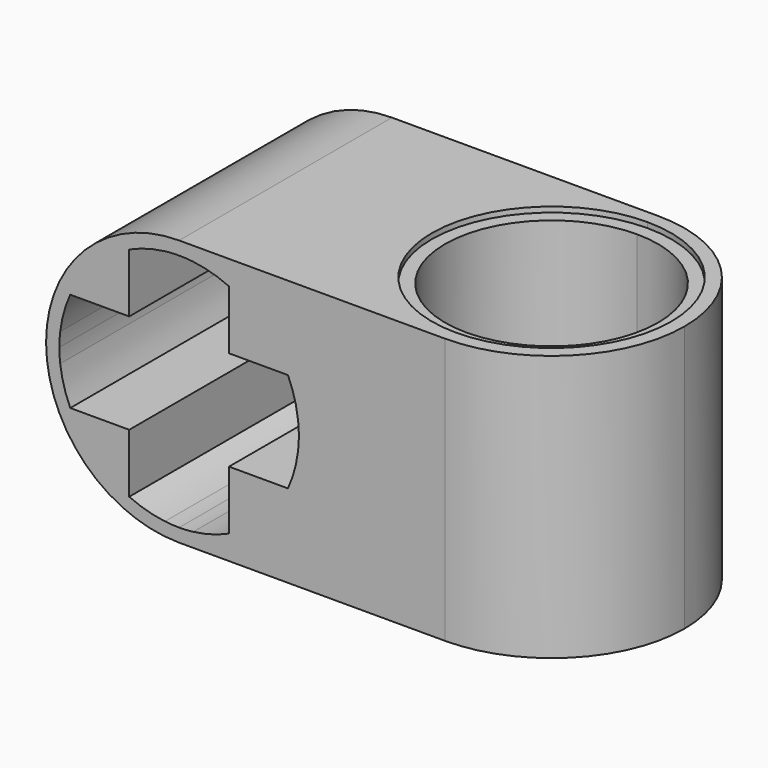
from build123d import *

# Parameters (mm, degrees)
F1_DEPTH = 12.7
F3_DEPTH = 12.7
F4_DEPTH = 0.254
F5_R     = 5.715
F5_R_2   = 5.0844343855
F6_DEPTH = 0.254


with BuildPart() as f1:
    # F0 (on Front) → F1 (new body)
    with BuildSketch(Plane.XZ):
        with BuildLine():
            Line((-1.1751782149, -4.8178826279), (-1.1751782149, 1.5321173721))
            ThreePointArc((-1.1751782149, 1.5321173721), (-3.0350501544, -2.9580106884), (-7.5251782149, -4.8178826279))
            Line((-7.5251782149, -4.8178826279), (-1.1751782149, -4.8178826279))
        make_face()
        with BuildLine():
            Line((-13.2001757149, 2.2071198721), (-13.8751782149, 1.5321173721))
            Line((-13.8751782149, 1.5321173721), (-13.2401782149, 1.5321173721))
            ThreePointArc((-13.2401782149, 1.5321173721), (-13.2301688246, 1.8702107672), (-13.2001757149, 2.2071198721))
        make_face()
        with BuildLine():
            Line((-13.2401782149, 1.5321173721), (-13.8751782149, 1.5321173721))
            Line((-13.8751782149, 1.5321173721), (-13.2001757149, 0.8571148721))
            ThreePointArc((-13.2001757149, 0.8571148721), (-13.2301688246, 1.1940239771), (-13.2401782149, 1.5321173721))
        make_face()
        with BuildLine():
            Line((-8.2001807149, -4.1428801279), (-7.5251782149, -4.8178826279))
            Line((-7.5251782149, -4.8178826279), (-7.5251782149, -4.1828826279))
            ThreePointArc((-7.5251782149, -4.1828826279), (-7.8632716099, -4.1728732375), (-8.2001807149, -4.1428801279))
        make_face()
        with BuildLine():
            Line((-7.5251782149, -4.1828826279), (-7.5251782149, -4.8178826279))
            Line((-7.5251782149, -4.8178826279), (-6.8501757149, -4.1428801279))
            ThreePointArc((-6.8501757149, -4.1428801279), (-7.1870848199, -4.1728732375), (-7.5251782149, -4.1828826279))
        make_face()
        with BuildLine():
            Line((-6.8501757149, 7.2071148721), (-7.5251782149, 7.8821173721))
            Line((-7.5251782149, 7.8821173721), (-7.5251782149, 7.2471173721))
            ThreePointArc((-7.5251782149, 7.2471173721), (-7.1870848199, 7.2371079818), (-6.8501757149, 7.2071148721))
        make_face()
        with BuildLine():
            Line((-7.5251782149, 7.2471173721), (-7.5251782149, 7.8821173721))
            Line((-7.5251782149, 7.8821173721), (-8.2001807149, 7.2071148721))
            ThreePointArc((-8.2001807149, 7.2071148721), (-7.8632716099, 7.2371079818), (-7.5251782149, 7.2471173721))
        make_face()
        with BuildLine():
            ThreePointArc((-1.1751782149, 1.5321173721), (-3.0350501544, 6.0222454327), (-7.5251782149, 7.8821173721))
            Line((-7.5251782149, 7.8821173721), (-6.8501757149, 7.2071148721))
            ThreePointArc((-6.8501757149, 7.2071148721), (-5.9783416171, 7.0338008908), (-5.1439282149, 6.7273915167))
            ThreePointArc((-5.1439282149, 6.7273915167), (-3.4840629604, 5.5732326266), (-2.3299040703, 3.9133673721))
            ThreePointArc((-2.3299040703, 3.9133673721), (-2.0234946962, 3.07895397), (-1.8501807149, 2.2071198721))
            Line((-1.8501807149, 2.2071198721), (-1.1751782149, 1.5321173721))
        make_face()
        with BuildLine():
            Line((-8.2001807149, 7.2071148721), (-7.5251782149, 7.8821173721))
            ThreePointArc((-7.5251782149, 7.8821173721), (-12.0153062754, 6.0222454327), (-13.8751782149, 1.5321173721))
            Line((-13.8751782149, 1.5321173721), (-13.2001757149, 2.2071198721))
            ThreePointArc((-13.2001757149, 2.2071198721), (-13.0268617336, 3.07895397), (-12.7204523595, 3.9133673721))
            ThreePointArc((-12.7204523595, 3.9133673721), (-11.5662934694, 5.5732326266), (-9.9064282149, 6.7273915167))
            ThreePointArc((-9.9064282149, 6.7273915167), (-9.0720148127, 7.0338008908), (-8.2001807149, 7.2071148721))
        make_face()
        with BuildLine():
            Line((-13.2001757149, 0.8571148721), (-13.8751782149, 1.5321173721))
            ThreePointArc((-13.8751782149, 1.5321173721), (-12.0153062754, -2.9580106884), (-7.5251782149, -4.8178826279))
            Line((-7.5251782149, -4.8178826279), (-8.2001807149, -4.1428801279))
            ThreePointArc((-8.2001807149, -4.1428801279), (-9.0720148127, -3.9695661465), (-9.9064282149, -3.6631567725))
            ThreePointArc((-9.9064282149, -3.6631567725), (-11.5662934694, -2.5089978823), (-12.7204523595, -0.8491326279))
            ThreePointArc((-12.7204523595, -0.8491326279), (-13.0268617336, -0.0147192257), (-13.2001757149, 0.8571148721))
        make_face()
        with BuildLine():
            ThreePointArc((-7.5251782149, -4.8178826279), (-3.0350501544, -2.9580106884), (-1.1751782149, 1.5321173721))
            Line((-1.1751782149, 1.5321173721), (-1.8501807149, 0.8571148721))
            ThreePointArc((-1.8501807149, 0.8571148721), (-2.0234946962, -0.0147192257), (-2.3299040703, -0.8491326279))
            ThreePointArc((-2.3299040703, -0.8491326279), (-3.4840629604, -2.5089978823), (-5.1439282149, -3.6631567725))
            ThreePointArc((-5.1439282149, -3.6631567725), (-5.9783416171, -3.9695661465), (-6.8501757149, -4.1428801279))
            Line((-6.8501757149, -4.1428801279), (-7.5251782149, -4.8178826279))
        make_face()
        with BuildLine():
            Line((-9.9064282149, 5.5008673721), (-9.9064282149, 6.7273915167))
            ThreePointArc((-9.9064282149, 6.7273915167), (-11.5662934694, 5.5732326266), (-12.7204523595, 3.9133673721))
            Line((-12.7204523595, 3.9133673721), (-11.4939282149, 3.9133673721))
            Line((-11.4939282149, 3.9133673721), (-10.7001782149, 4.7071173721))
            Line((-10.7001782149, 4.7071173721), (-9.9064282149, 5.5008673721))
        make_face()
        Polygon((-9.9064282149, 3.9133673721), (-9.9064282149, 5.5008673721), (-10.7001782149, 4.7071173721), align=None)
        Polygon((-10.7001782149, 4.7071173721), (-11.4939282149, 3.9133673721), (-9.9064282149, 3.9133673721), align=None)
        Polygon((-4.3501782149, 4.7071173721), (-5.1439282149, 5.5008673721), (-5.1439282149, 3.9133673721), align=None)
        with BuildLine():
            ThreePointArc((-2.3299040703, 3.9133673721), (-3.4840629604, 5.5732326266), (-5.1439282149, 6.7273915167))
            Line((-5.1439282149, 6.7273915167), (-5.1439282149, 5.5008673721))
            Line((-5.1439282149, 5.5008673721), (-4.3501782149, 4.7071173721))
            Line((-4.3501782149, 4.7071173721), (-3.5564282149, 3.9133673721))
            Line((-3.5564282149, 3.9133673721), (-2.3299040703, 3.9133673721))
        make_face()
        Polygon((-5.1439282149, 3.9133673721), (-3.5564282149, 3.9133673721), (-4.3501782149, 4.7071173721), align=None)
        with BuildLine():
            ThreePointArc((-5.1439282149, -3.6631567725), (-3.4840629604, -2.5089978823), (-2.3299040703, -0.8491326279))
            Line((-2.3299040703, -0.8491326279), (-3.5564282149, -0.8491326279))
            Line((-3.5564282149, -0.8491326279), (-4.3501782149, -1.6428826279))
            Line((-4.3501782149, -1.6428826279), (-5.1439282149, -2.4366326279))
            Line((-5.1439282149, -2.4366326279), (-5.1439282149, -3.6631567725))
        make_face()
        Polygon((-4.3501782149, -1.6428826279), (-3.5564282149, -0.8491326279), (-5.1439282149, -0.8491326279), align=None)
        Polygon((-5.1439282149, -0.8491326279), (-5.1439282149, -2.4366326279), (-4.3501782149, -1.6428826279), align=None)
        with BuildLine():
            Line((-11.4939282149, -0.8491326279), (-12.7204523595, -0.8491326279))
            ThreePointArc((-12.7204523595, -0.8491326279), (-11.5662934694, -2.5089978823), (-9.9064282149, -3.6631567725))
            Line((-9.9064282149, -3.6631567725), (-9.9064282149, -2.4366326279))
            Line((-9.9064282149, -2.4366326279), (-10.7001782149, -1.6428826279))
            Line((-10.7001782149, -1.6428826279), (-11.4939282149, -0.8491326279))
        make_face()
        Polygon((-10.7001782149, -1.6428826279), (-9.9064282149, -2.4366326279), (-9.9064282149, -0.8491326279), align=None)
        Polygon((-9.9064282149, -0.8491326279), (-11.4939282149, -0.8491326279), (-10.7001782149, -1.6428826279), align=None)
        with BuildLine():
            Line((-1.8101782149, 1.5321173721), (-1.1751782149, 1.5321173721))
            Line((-1.1751782149, 1.5321173721), (-1.8501807149, 2.2071198721))
            ThreePointArc((-1.8501807149, 2.2071198721), (-1.8201876053, 1.8702107672), (-1.8101782149, 1.5321173721))
        make_face()
        with BuildLine():
            Line((-1.8501807149, 0.8571148721), (-1.1751782149, 1.5321173721))
            Line((-1.1751782149, 1.5321173721), (-1.8101782149, 1.5321173721))
            ThreePointArc((-1.8101782149, 1.5321173721), (-1.8201876053, 1.1940239771), (-1.8501807149, 0.8571148721))
        make_face()
        with BuildLine():
            Line((-1.1751782149, 7.8821173721), (-7.5251782149, 7.8821173721))
            ThreePointArc((-7.5251782149, 7.8821173721), (-3.0350501544, 6.0222454327), (-1.1751782149, 1.5321173721))
            Line((-1.1751782149, 1.5321173721), (-1.1751782149, 7.8821173721))
        make_face()
        Polygon((11.5248217851, 7.8821173721), (-1.1751782149, 7.8821173721), (-1.1751782149, 1.5321173721), (-1.1751782149, -4.8178826279), (11.5248217851, -4.8178826279), align=None)
    extrude(amount=F1_DEPTH)

    # F2 (on face) → F3 (cut)
    with BuildSketch(Plane.XY.offset(7.8821173721)):
        with BuildLine():
            Line((11.5248217851, 0), (5.1748217851, 0))
            ThreePointArc((5.1748217851, 0), (9.6649498456, -1.8598719395), (11.5248217851, -6.35))
            Line((11.5248217851, -6.35), (11.5248217851, 0))
        make_face()
        with BuildLine():
            Line((11.5248217851, -12.7), (11.5248217851, -6.35))
            ThreePointArc((11.5248217851, -6.35), (9.6649498456, -10.8401280605), (5.1748217851, -12.7))
            Line((5.1748217851, -12.7), (11.5248217851, -12.7))
        make_face()
        with BuildLine():
            Line((5.1748217851, -11.4344343855), (5.1748217851, -1.2655656145))
            ThreePointArc((5.1748217851, -1.2655656145), (0.0903873996, -6.35), (5.1748217851, -11.4344343855))
        make_face()
        with BuildLine():
            ThreePointArc((10.2592561706, -6.35), (8.7700598176, -2.7547619675), (5.1748217851, -1.2655656145))
            Line((5.1748217851, -1.2655656145), (5.1748217851, -11.4344343855))
            ThreePointArc((5.1748217851, -11.4344343855), (8.7700598176, -9.9452380325), (10.2592561706, -6.35))
        make_face()
    extrude(amount=-F3_DEPTH, mode=Mode.SUBTRACT)

    # F2 (on face) → F4 (cut)
    with BuildSketch(Plane.XY.offset(7.8821173721)):
        with BuildLine():
            Line((5.1748217851, -1.2655656145), (5.1748217851, -0.635))
            ThreePointArc((5.1748217851, -0.635), (-0.5401782149, -6.35), (5.1748217851, -12.065))
            Line((5.1748217851, -12.065), (5.1748217851, -11.4344343855))
            ThreePointArc((5.1748217851, -11.4344343855), (0.0903873996, -6.35), (5.1748217851, -1.2655656145))
        make_face()
        with BuildLine():
            ThreePointArc((10.8898217851, -6.35), (9.2159370396, -2.3088847455), (5.1748217851, -0.635))
            Line((5.1748217851, -0.635), (5.1748217851, -1.2655656145))
            ThreePointArc((5.1748217851, -1.2655656145), (8.7700598176, -2.7547619675), (10.2592561706, -6.35))
            ThreePointArc((10.2592561706, -6.35), (8.7700598176, -9.9452380325), (5.1748217851, -11.4344343855))
            Line((5.1748217851, -11.4344343855), (5.1748217851, -12.065))
            ThreePointArc((5.1748217851, -12.065), (9.2159370396, -10.3911152545), (10.8898217851, -6.35))
        make_face()
    extrude(amount=-F4_DEPTH, mode=Mode.SUBTRACT)

    # F5 (on face) → F6 (cut)
    with BuildSketch(Plane(origin=(0, 0, -4.8178826279), x_dir=(1, 0, 0), z_dir=(0, 0, -1))):
        with Locations((5.1748217851, 6.35)):
            Circle(F5_R)
        with Locations((5.1748217851, 6.35)):
            Circle(F5_R_2, mode=Mode.SUBTRACT)
    extrude(amount=-F6_DEPTH, mode=Mode.SUBTRACT)


solid = f1.part
